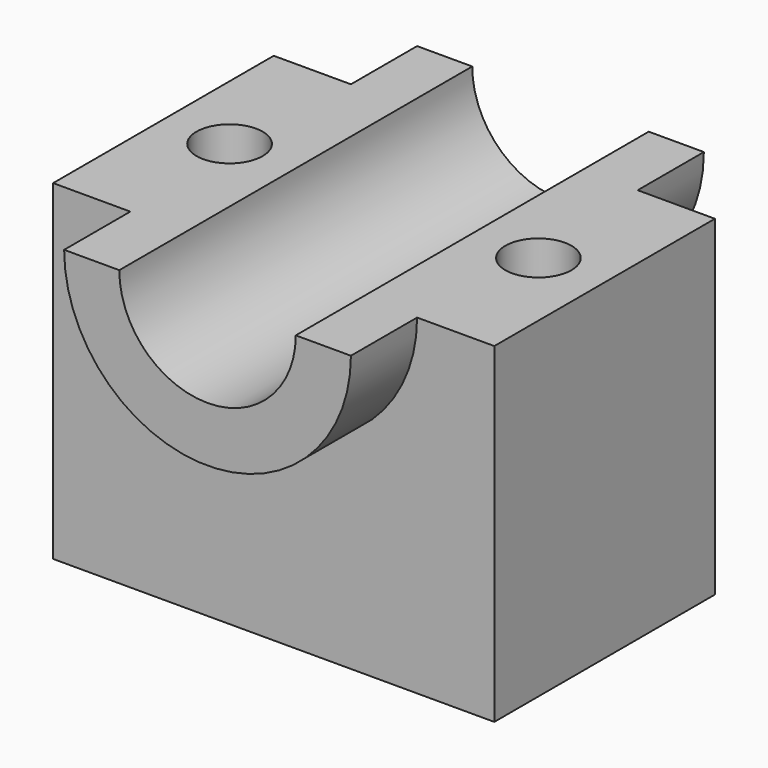
from build123d import *

# Parameters (mm, degrees)
F0_W     = 101.6
F0_H     = 76.2
F1_DEPTH = 31.75
F3_DEPTH = 50.8
F5_DEPTH = 76.2
F6_R     = 7.62
F7_DEPTH = 76.2


with BuildPart() as f1:
    # F0 (on Front) → F1 (new body, symmetric)
    with BuildSketch(Plane.XZ):
        Rectangle(F0_W, F0_H)
    extrude(amount=F1_DEPTH, both=True)

    # F2 (on Front) → F3 (join, symmetric)
    with BuildSketch(Plane.XZ):
        with BuildLine():
            ThreePointArc((20.32, 38.1), (0, 17.78), (-20.32, 38.1))
            Line((-20.32, 38.1), (-33.02, 38.1))
            ThreePointArc((-33.02, 38.1), (0, 5.08), (33.02, 38.1))
            Line((33.02, 38.1), (20.32, 38.1))
        make_face()
    extrude(amount=F3_DEPTH, both=True)

    # F4 (on face) → F5 (cut)
    with BuildSketch(Plane.XZ.offset(31.75)):
        with BuildLine():
            Line((20.32, 38.1), (-20.32, 38.1))
            ThreePointArc((-20.32, 38.1), (0, 17.78), (20.32, 38.1))
        make_face()
    extrude(amount=-F5_DEPTH, mode=Mode.SUBTRACT)

    # F6 (on face) → F7 (cut)
    with BuildSketch(Plane.XY.offset(38.1)):
        with Locations((-35.56, 0)):
            Circle(F6_R)
        with Locations((35.56, 0)):
            Circle(F6_R)
    extrude(amount=-F7_DEPTH, mode=Mode.SUBTRACT)


solid = f1.part
